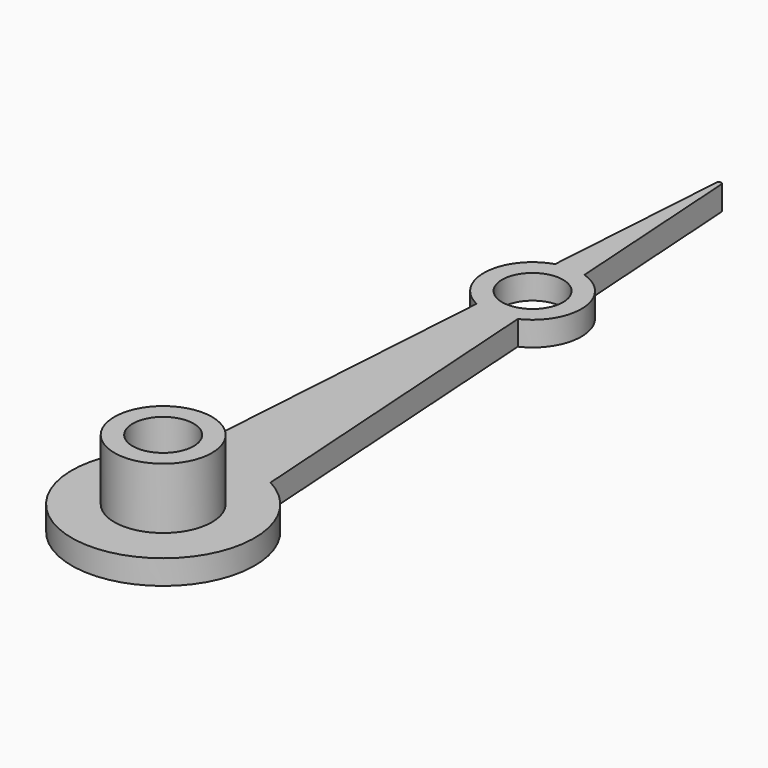
from build123d import *

# Parameters (mm, degrees)
F0_R     = 2.5
F1_DEPTH = 2
F2_R     = 4
F3_DEPTH = 5
F4_R     = 2.5
F5_DEPTH = 7.001


with BuildPart() as f1:
    # F0 (on Top) → F1 (new body)
    with BuildSketch(Plane.XY):
        with BuildLine():
            Line((-1.686594, 34.226591), (-3.492007, 6.637461))
            ThreePointArc((-3.492007, 6.637461), (0, -7.5), (3.492007, 6.637461))
            Line((3.492007, 6.637461), (1.686594, 34.226591))
            ThreePointArc((1.686594, 34.226591), (3.991463, 38.114827), (1.199533, 41.669532))
            Line((1.199533, 41.669532), (0.199573, 56.950255))
            ThreePointArc((0.199573, 56.950255), (0, 57.137195), (-0.199573, 56.950255))
            Line((-0.199573, 56.950255), (-1.199533, 41.669532))
            ThreePointArc((-1.199533, 41.669532), (-3.991463, 38.114827), (-1.686594, 34.226591))
        make_face()
        with Locations((0, 37.853628)):
            Circle(F0_R, mode=Mode.SUBTRACT)
    extrude(amount=F1_DEPTH)

    # F2 (on face) → F3 (join)
    with BuildSketch(Plane.XY.offset(2)):
        Circle(F2_R)
    extrude(amount=F3_DEPTH)

    # F4 (on face) → F5 (cut, through all)
    with BuildSketch(Plane.XY.offset(7)):
        Circle(F4_R)
    extrude(amount=-F5_DEPTH, mode=Mode.SUBTRACT)


solid = f1.part
